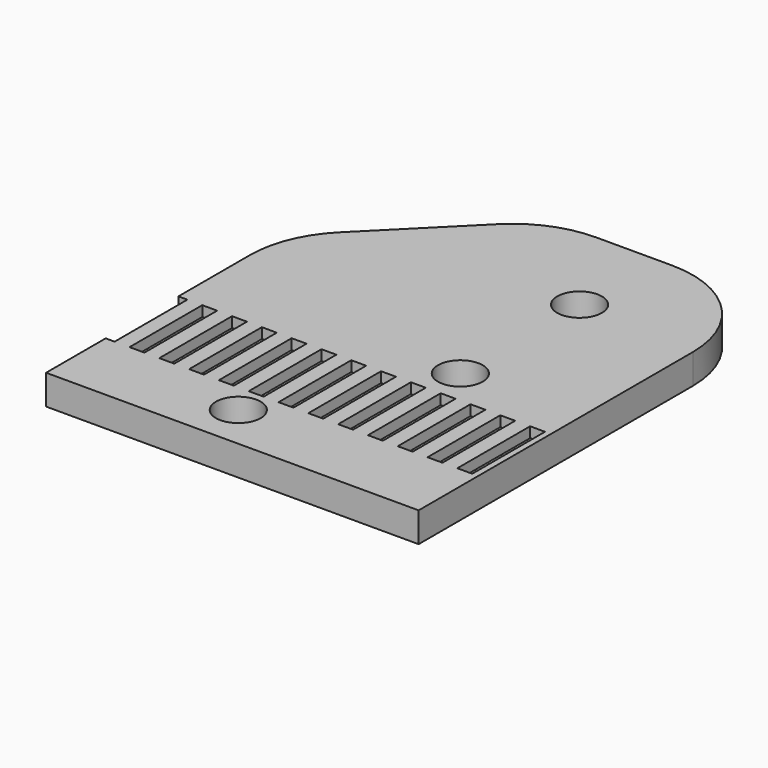
from build123d import *

# Parameters (mm, degrees)
F0_W     = 25
F0_H     = 30
F1_DEPTH = 2
F2_R     = 1.5
F3_DEPTH = 2.001
F4_W     = 1
F4_H     = 6.1
F5_DEPTH = 0.7
F6_SIZE  = 10
F7_R     = 7


with BuildPart() as f1:
    # F0 (on Top) → F1 (new body)
    with BuildSketch(Plane.XY):
        Rectangle(F0_W, F0_H)
    extrude(amount=F1_DEPTH)

    # F2 (on face) → F3 (cut, through all)
    with BuildSketch(Plane.XY.offset(2)):
        with Locations((-2, -12)):
            Circle(F2_R)
        with Locations((4.5, -1.5)):
            Circle(F2_R)
        with Locations((4.5, 8.5)):
            Circle(F2_R)
    extrude(amount=-F3_DEPTH, mode=Mode.SUBTRACT)

    # F4 (on face) → F5 (cut)
    with BuildSketch(Plane.XY.offset(2)):
        with Locations((11.6, -6.95)):
            Rectangle(F4_W, F4_H)
        with Locations((9.6, -6.95)):
            Rectangle(F4_W, F4_H)
        with Locations((7.6, -6.95)):
            Rectangle(F4_W, F4_H)
        with Locations((5.6, -6.95)):
            Rectangle(F4_W, F4_H)
        with Locations((3.6, -6.95)):
            Rectangle(F4_W, F4_H)
        with Locations((1.6, -6.95)):
            Rectangle(F4_W, F4_H)
        with Locations((-0.4, -6.95)):
            Rectangle(F4_W, F4_H)
        with Locations((-2.4, -6.95)):
            Rectangle(F4_W, F4_H)
        with Locations((-4.4, -6.95)):
            Rectangle(F4_W, F4_H)
        with Locations((-6.4, -6.95)):
            Rectangle(F4_W, F4_H)
        with Locations((-8.4, -6.95)):
            Rectangle(F4_W, F4_H)
        with Locations((-10.4, -6.95)):
            Rectangle(F4_W, F4_H)
        with Locations((-12.4, -6.95)):
            Rectangle(F4_W, F4_H)
    extrude(amount=-F5_DEPTH, mode=Mode.SUBTRACT)

    # F6
    f6_edges = [f1.edges().sort_by_distance(p)[0] for p in [
        (-12.5, 15, 1),
    ]]
    chamfer(f6_edges, length=F6_SIZE)

    # F7
    f7_edges = [f1.edges().sort_by_distance(p)[0] for p in [
        (-12.5, 5, 1),
        (-2.5, 15, 1),
        (12.5, 15, 1),
    ]]
    fillet(f7_edges, radius=F7_R)


solid = f1.part
